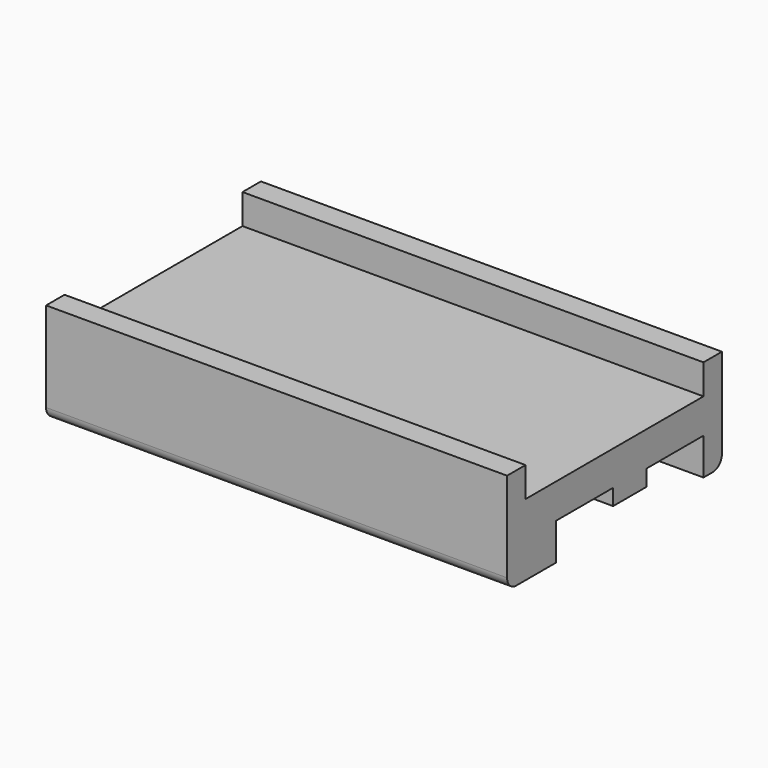
from build123d import *

# Parameters (mm, degrees)
F0_W     = 40
F0_H     = 19.3
F1_DEPTH = 3
F0_H_2   = 2
F2_DEPTH = 5.6
F3_W     = 40
F3_H     = 5.3
F4_DEPTH = 3.2
F5_R     = 1
F3_H_2   = 1.8
F6_DEPTH = 1.4


with BuildPart() as f1:
    # F0 (on Top) → F1 (new body)
    with BuildSketch(Plane.XY):
        with Locations((20, -11.65)):
            Rectangle(F0_W, F0_H)
    extrude(amount=F1_DEPTH)

    # F0 (on Top) → F2 (join)
    with BuildSketch(Plane.XY):
        with Locations((20, -22.3)):
            Rectangle(F0_W, F0_H_2)
        with Locations((20, -1)):
            Rectangle(F0_W, F0_H_2)
    extrude(amount=F2_DEPTH)

    # F0 (on Top) + F3 (on Top) → F4 (join)
    with BuildSketch(Plane.XY):
        with Locations((20, -1)):
            Rectangle(F0_W, F0_H_2)
    with BuildSketch(Plane.XY):
        with Locations((20, -20.65)):
            Rectangle(F3_W, F3_H)
    extrude(amount=-F4_DEPTH)

    # F5
    f5_edges = [f1.edges().sort_by_distance(p)[0] for p in [
        (20, -23.3, -3.2),
        (20, 0, -3.2),
    ]]
    fillet(f5_edges, radius=F5_R)

    # F3 (on Top) → F6 (join)
    with BuildSketch(Plane.XY):
        with Locations((20, -9.1)):
            Rectangle(F3_W, F3_H_2)
        with Locations((20, -10.9)):
            Rectangle(F3_W, F3_H_2)
    extrude(amount=-F6_DEPTH)


solid = f1.part
